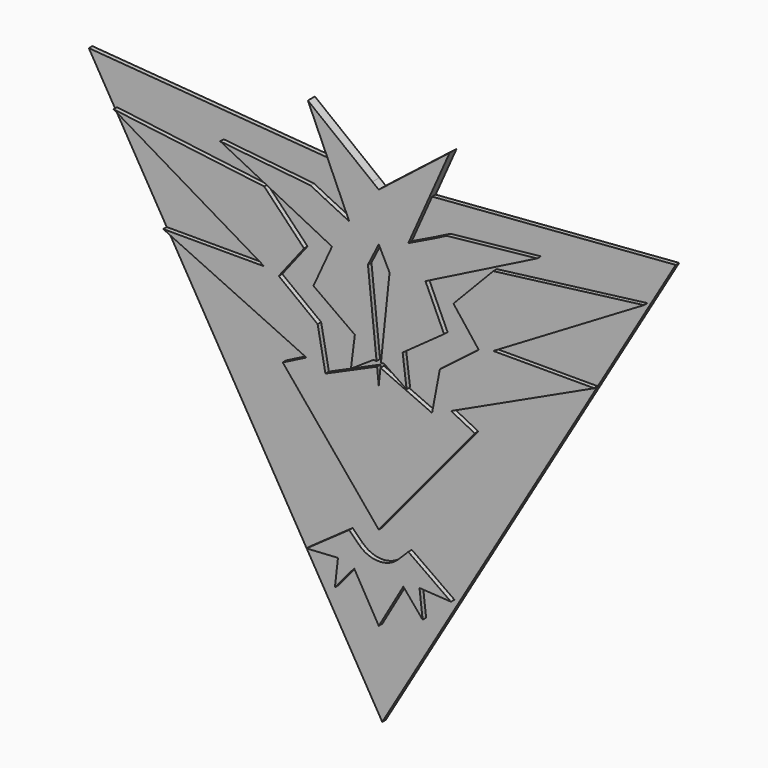
from build123d import *

# Parameters (mm, degrees)
F1_DEPTH = 6.35
F2_DEPTH = 12.7


with BuildPart() as f1:
    # F0 (on Front) → F1 (new body)
    with BuildSketch(Plane.XZ):
        Polygon((-485.5751420818, -190.2299884788), (-172.9206451465, 340.130851128), (-380.6757926941, 243.5427904129), (-346.2815037892, 226.1720895767), (-485.5751420818, 57.8887422456), (-624.8687803745, 226.1720895767), (-590.4744914696, 243.5427904129), (-798.2296390172, 340.130851128), align=None)
        with BuildLine():
            Line((-449.8881420818, -3.1962913091), (-485.5751420818, -65.0079884788))
            Line((-485.5751420818, -65.0079884788), (-521.2621420818, -3.1962913091))
            Line((-521.2621420818, -3.1962913091), (-549.180979121, -36.4686656515))
            Line((-549.180979121, -36.4686656515), (-544.6832078992, 2.643569698))
            Line((-544.6832078992, 2.643569698), (-590.3208287346, -0.0997794377))
            Line((-590.3208287346, -0.0997794377), (-528.4694970898, 43.5315354378))
            Line((-528.4694970898, 43.5315354378), (-514.0510197234, 29.2133682914))
            ThreePointArc((-514.0510197234, 29.2133682914), (-485.5751420818, 17.4764584835), (-457.0992644403, 29.2133682914))
            Line((-457.0992644403, 29.2133682914), (-442.6807870739, 43.5315354378))
            Line((-442.6807870739, 43.5315354378), (-380.8294554291, -0.0997794377))
            Line((-380.8294554291, -0.0997794377), (-426.4670762645, 2.643569698))
            Line((-426.4670762645, 2.643569698), (-421.9693050427, -36.4686656515))
            Line((-421.9693050427, -36.4686656515), (-449.8881420818, -3.1962913091))
        make_face(mode=Mode.SUBTRACT)
    extrude(amount=F1_DEPTH)


with BuildPart() as f1b:
    # F0 (on Front) → F1, piece 2 (new body)
    with BuildSketch(Plane.XZ):
        Polygon((-172.9206451465, 340.130851128), (-59.9057547382, 531.8398230204), (-413.167752041, 504.1609113641), (-442.6994789512, 437.7238548981), (-407.7049196339, 454.7187798673), (-386.7164137088, 465.3005182942), (-255.5917930773, 479.0822712702), (-417.7836477757, 397.3102867603), (-390.8452568724, 338.421885956), (-450.8996789181, 295.4383105375), (-445.2067492678, 250.3562617189), (-477.7398109436, 272.1401154995), (-482.4187469524, 272.1401154995), (-483.136191916, 265.3140826404), (-408.2230004371, 232.0314205909), (-396.9347151817, 291.5514863754), (-340.4932591022, 334.6522308612), (-377.2042264194, 381.8577982212), (-319.3926513195, 442.1046674252), (-100.9215166589, 469.6930497821), (-319.3926513195, 340.130851128), align=None)
        Polygon((-911.2445294255, 531.8398230204), (-798.2296390172, 340.130851128), (-651.7576328442, 340.130851128), (-870.2287675048, 469.6930497821), (-651.7576328442, 442.1046674252), (-593.9460577443, 381.8577982212), (-630.6570250615, 334.6522308612), (-574.215568982, 291.5514863754), (-562.9272837265, 232.0314205909), (-488.0140922477, 265.3140826404), (-488.7315372112, 272.1401154995), (-493.4104732201, 272.1401154995), (-525.9435348959, 250.3562617189), (-520.2506052456, 295.4383105375), (-580.3050272913, 338.421885956), (-553.366636388, 397.3102867603), (-715.5584910864, 479.0822712702), (-584.4338704548, 465.3005182942), (-563.4453645297, 454.7187798673), (-528.4508052125, 437.7238548981), (-557.9825321227, 504.1609113641), align=None)
        Polygon((-485.5751420818, 242.1090218769), (-483.136191916, 265.3140826404), (-482.4187469524, 272.1401154995), (-469.9044798054, 391.2054140143), (-485.5751420818, 422.2876213768), (-501.2458043583, 391.2054140143), (-488.7315372112, 272.1401154995), (-488.0140922477, 265.3140826404), align=None)
    extrude(amount=F1_DEPTH)


with BuildPart() as f2:
    # F0 (on Front) → F2 (new body)
    with BuildSketch(Plane.XZ):
        Polygon((-442.6994789512, 437.7238548981), (-413.167752041, 504.1609113641), (-476.4264261655, 499.2044448719), (-485.5751420818, 492.043023193), (-494.7238579982, 499.2044448719), (-557.9825321227, 504.1609113641), (-528.4508052125, 437.7238548981), (-563.4453645297, 454.7187798673), (-584.4338704548, 465.3005182942), (-715.5584910864, 479.0822712702), (-553.366636388, 397.3102867603), (-580.3050272913, 338.421885956), (-520.2506052456, 295.4383105375), (-525.9435348959, 250.3562617189), (-493.4104732201, 272.1401154995), (-488.7315372112, 272.1401154995), (-501.2458043583, 391.2054140143), (-485.5751420818, 422.2876213768), (-469.9044798054, 391.2054140143), (-482.4187469524, 272.1401154995), (-477.7398109436, 272.1401154995), (-445.2067492678, 250.3562617189), (-450.8996789181, 295.4383105375), (-390.8452568724, 338.421885956), (-417.7836477757, 397.3102867603), (-255.5917930773, 479.0822712702), (-386.7164137088, 465.3005182942), (-407.7049196339, 454.7187798673), align=None)
        Polygon((-476.4264261655, 499.2044448719), (-413.167752041, 504.1609113641), (-382.7901326724, 572.5009586441), align=None)
        Polygon((-557.9825321227, 504.1609113641), (-494.7238579982, 499.2044448719), (-588.3601514913, 572.5009586441), align=None)
    extrude(amount=F2_DEPTH)


with BuildPart() as f2b:
    # F0 (on Front) → F2, piece 2 (new body)
    with BuildSketch(Plane.XZ):
        with BuildLine():
            Line((-521.2621420818, -3.1962913091), (-485.5751420818, -65.0079884788))
            Line((-485.5751420818, -65.0079884788), (-449.8881420818, -3.1962913091))
            Line((-449.8881420818, -3.1962913091), (-421.9693050427, -36.4686656515))
            Line((-421.9693050427, -36.4686656515), (-426.4670762645, 2.643569698))
            Line((-426.4670762645, 2.643569698), (-380.8294554291, -0.0997794377))
            Line((-380.8294554291, -0.0997794377), (-442.6807870739, 43.5315354378))
            Line((-442.6807870739, 43.5315354378), (-457.0992644403, 29.2133682914))
            ThreePointArc((-457.0992644403, 29.2133682914), (-485.5751420818, 17.4764584835), (-514.0510197234, 29.2133682914))
            Line((-514.0510197234, 29.2133682914), (-528.4694970898, 43.5315354378))
            Line((-528.4694970898, 43.5315354378), (-590.3208287346, -0.0997794377))
            Line((-590.3208287346, -0.0997794377), (-544.6832078992, 2.643569698))
            Line((-544.6832078992, 2.643569698), (-549.180979121, -36.4686656515))
            Line((-549.180979121, -36.4686656515), (-521.2621420818, -3.1962913091))
        make_face()
    extrude(amount=F2_DEPTH)


with BuildPart() as f2c:
    # F0 (on Front) → F2, piece 3 (new body)
    with BuildSketch(Plane.XZ):
        Polygon((-380.6757926941, 243.5427904129), (-172.9206451465, 340.130851128), (-319.3926513195, 340.130851128), (-100.9215166589, 469.6930497821), (-319.3926513195, 442.1046674252), (-377.2042264194, 381.8577982212), (-340.4932591022, 334.6522308612), (-396.9347151817, 291.5514863754), (-408.2230004371, 232.0314205909), (-483.136191916, 265.3140826404), (-485.5751420818, 242.1090218769), (-488.0140922477, 265.3140826404), (-562.9272837265, 232.0314205909), (-574.215568982, 291.5514863754), (-630.6570250615, 334.6522308612), (-593.9460577443, 381.8577982212), (-651.7576328442, 442.1046674252), (-870.2287675048, 469.6930497821), (-651.7576328442, 340.130851128), (-798.2296390172, 340.130851128), (-590.4744914696, 243.5427904129), (-624.8687803745, 226.1720895767), (-485.5751420818, 57.8887422456), (-346.2815037892, 226.1720895767), align=None)
    extrude(amount=F2_DEPTH)


solid = Compound([f1.part, f1b.part, f2.part, f2b.part, f2c.part])
